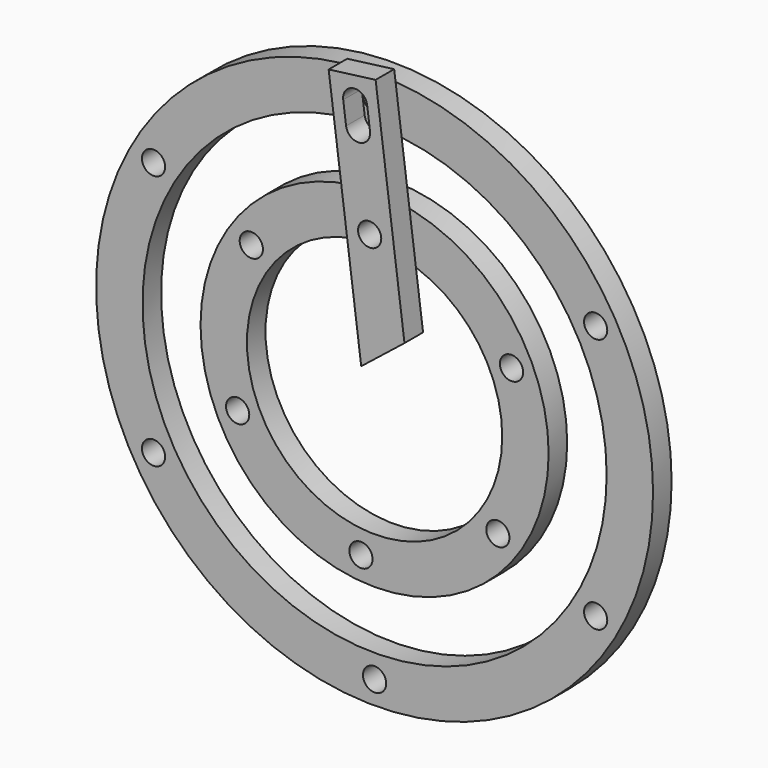
from build123d import *

# Parameters (mm, degrees)
F0_R     = 76.2
F0_R_2   = 3.175
F0_R_3   = 63.5
F1_DEPTH = 6.35
F2_R     = 47.625
F2_R_2   = 3.175
F2_R_3   = 34.925
F3_DEPTH = 6.35
F4_R     = 3.175
F5_DEPTH = 6.35


with BuildPart() as f1:
    # F0 (on Front) → F1 (new body)
    with BuildSketch(Plane.XZ):
        Circle(F0_R)
        with Locations((-60.491874, -34.925)):
            Circle(F0_R_2, mode=Mode.SUBTRACT)
        with Locations((0, -69.85)):
            Circle(F0_R_2, mode=Mode.SUBTRACT)
        with Locations((60.491874, -34.925)):
            Circle(F0_R_2, mode=Mode.SUBTRACT)
        with Locations((-60.491874, 34.925)):
            Circle(F0_R_2, mode=Mode.SUBTRACT)
        Circle(F0_R_3, mode=Mode.SUBTRACT)
        with Locations((60.491874, 34.925)):
            Circle(F0_R_2, mode=Mode.SUBTRACT)
        with Locations((0, 69.85)):
            Circle(F0_R_2, mode=Mode.SUBTRACT)
    extrude(amount=F1_DEPTH)


with BuildPart() as f3:
    # F2 (on Front) → F3 (new body)
    with BuildSketch(Plane.XZ):
        Circle(F2_R)
        with Locations((-3.733334, -41.105813)):
            Circle(F2_R_2, mode=Mode.SUBTRACT)
        with Locations((-37.465345, -17.319745)):
            Circle(F2_R_2, mode=Mode.SUBTRACT)
        with Locations((33.732011, -23.786068)):
            Circle(F2_R_2, mode=Mode.SUBTRACT)
        with Locations((-33.732011, 23.786068)):
            Circle(F2_R_2, mode=Mode.SUBTRACT)
        Circle(F2_R_3, mode=Mode.SUBTRACT)
        with Locations((37.465345, 17.319745)):
            Circle(F2_R_2, mode=Mode.SUBTRACT)
        with Locations((3.733334, 41.105813)):
            Circle(F2_R_2, mode=Mode.SUBTRACT)
    extrude(amount=F3_DEPTH)


with BuildPart() as f5:
    # F4 (on face) → F5 (new body)
    with BuildSketch(Plane.XZ.offset(6.35)):
        Polygon((5.359811, 78.870476), (-7.486291, 77.202007), (1.423059, 8.605936), (13.262581, 18.024399), align=None)
        with Locations((3.733334, 41.105813)):
            Circle(F4_R, mode=Mode.SUBTRACT)
        with BuildLine():
            ThreePointArc((-3.503502, 71.187894), (-0.654302, 74.887687), (3.045491, 72.038486))
            Line((3.045491, 72.038486), (3.830653, 65.993262))
            ThreePointArc((3.830653, 65.993262), (0.981452, 62.29347), (-2.71834, 65.14267))
            Line((-2.71834, 65.14267), (-3.503502, 71.187894))
        make_face(mode=Mode.SUBTRACT)
    extrude(amount=F5_DEPTH)


solid = Compound([f1.part, f3.part, f5.part])
